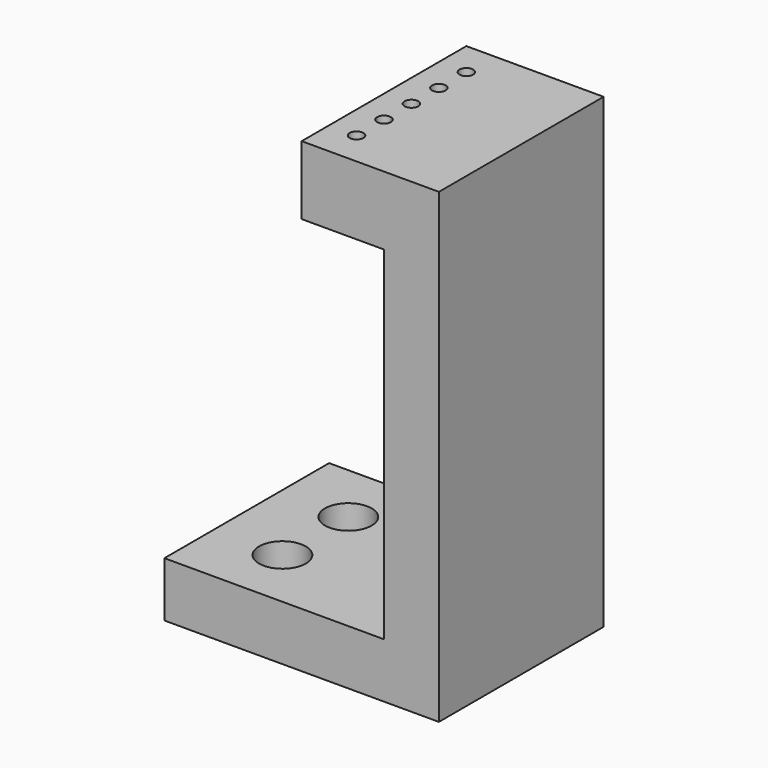
from build123d import *

# Parameters (mm, degrees)
F0_W     = 16
F0_H     = 15
F0_R     = 1.7
F0_W_2   = 4
F1_DEPTH = 4
F2_DEPTH = 25
F3_W     = 10
F3_H     = 15
F3_R     = 0.5
F4_DEPTH = 5


with BuildPart() as f1:
    # F0 (on Top) → F1 (new body)
    with BuildSketch(Plane.XY):
        with Locations((-12, 0)):
            Rectangle(F0_W, F0_H)
        with Locations((-15, -3)):
            Circle(F0_R, mode=Mode.SUBTRACT)
        with Locations((-15, 3)):
            Circle(F0_R, mode=Mode.SUBTRACT)
        with Locations((-2, 0)):
            Rectangle(F0_W_2, F0_H)
    extrude(amount=-F1_DEPTH)

    # F0 (on Top) → F2 (join)
    with BuildSketch(Plane.XY):
        with Locations((-2, 0)):
            Rectangle(F0_W_2, F0_H)
    extrude(amount=F2_DEPTH)

    # F3 (on face) → F4 (join)
    with BuildSketch(Plane.XY.offset(25)):
        with Locations((-5, 0)):
            Rectangle(F3_W, F3_H)
        with Locations((-8, -5)):
            Circle(F3_R, mode=Mode.SUBTRACT)
        with Locations((-8, -2.5)):
            Circle(F3_R, mode=Mode.SUBTRACT)
        with Locations((-8, 0)):
            Circle(F3_R, mode=Mode.SUBTRACT)
        with Locations((-8, 2.5)):
            Circle(F3_R, mode=Mode.SUBTRACT)
        with Locations((-8, 5)):
            Circle(F3_R, mode=Mode.SUBTRACT)
        with Locations((-5, 0)):
            Rectangle(F3_W, F3_H)
        with Locations((-8, -5)):
            Circle(F3_R, mode=Mode.SUBTRACT)
        with Locations((-8, -2.5)):
            Circle(F3_R, mode=Mode.SUBTRACT)
        with Locations((-8, 0)):
            Circle(F3_R, mode=Mode.SUBTRACT)
        with Locations((-8, 2.5)):
            Circle(F3_R, mode=Mode.SUBTRACT)
        with Locations((-8, 5)):
            Circle(F3_R, mode=Mode.SUBTRACT)
    extrude(amount=F4_DEPTH)


solid = f1.part
